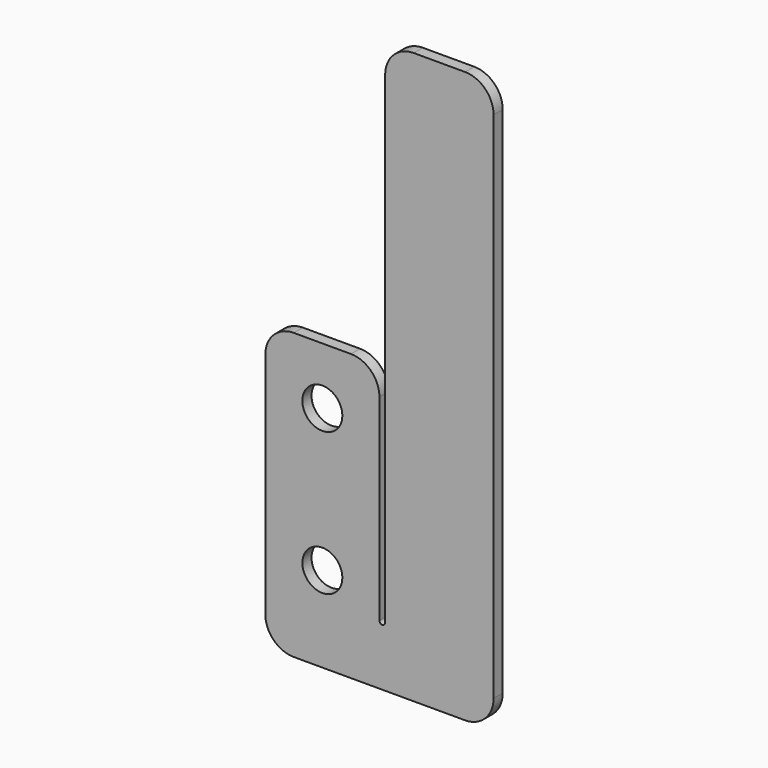
from build123d import *

# Parameters (mm, degrees)
F0_R     = 3.5
F1_DEPTH = 2


with BuildPart() as f1:
    # F0 (on Front) → F1 (new body)
    with BuildSketch(Plane.XZ):
        with BuildLine():
            Line((0, 45), (0, 5))
            ThreePointArc((0, 5), (1.464466, 1.464466), (5, 0))
            Line((5, 0), (35, 0))
            ThreePointArc((35, 0), (38.535534, 1.464466), (40, 5))
            Line((40, 5), (40, 95))
            ThreePointArc((40, 95), (38.535534, 98.535534), (35, 100))
            Line((35, 100), (26, 100))
            ThreePointArc((26, 100), (22.464466, 98.535534), (21, 95))
            Line((21, 95), (21, 10.5))
            ThreePointArc((21, 10.5), (20.853553, 10.146447), (20.5, 10))
            ThreePointArc((20.5, 10), (20.146447, 10.146447), (20, 10.5))
            Line((20, 10.5), (20, 45))
            ThreePointArc((20, 45), (18.535534, 48.535534), (15, 50))
            Line((15, 50), (5, 50))
            ThreePointArc((5, 50), (1.464466, 48.535534), (0, 45))
        make_face()
        with Locations((10, 15)):
            Circle(F0_R, mode=Mode.SUBTRACT)
        with Locations((10, 40)):
            Circle(F0_R, mode=Mode.SUBTRACT)
    extrude(amount=F1_DEPTH)


solid = f1.part
